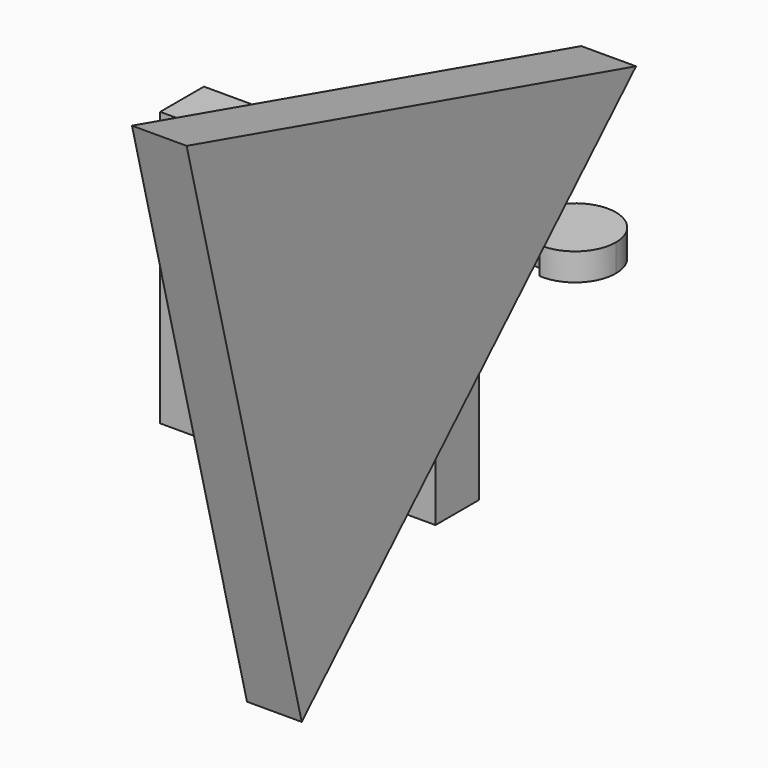
from build123d import *

# Parameters (mm, degrees)
F0_W     = 127.872322
F0_H     = 127.393622
F1_DEPTH = 25.4
F3_DEPTH = 12.7
F5_DEPTH = 25.4


with BuildPart() as f1:
    # F0 (on Front) → F1 (new body)
    with BuildSketch(Plane.XZ):
        with Locations((-59.20664, -14.814315)):
            Rectangle(F0_W, F0_H)
    extrude(amount=F1_DEPTH)

    # F4 (on Right) → F5 (join)
    with BuildSketch(Plane.YZ):
        Polygon((-128.909611, -110.192191), (65.195793, 78.98877), (-195.692427, 152.4985), align=None)
    extrude(amount=F5_DEPTH)


with BuildPart() as f3:
    # F2 (on Top) → F3 (new body)
    with BuildSketch(Plane.XY):
        with BuildLine():
            ThreePointArc((-3.808539, 36.946655), (2.206931, 37.848496), (6.097252, 33.172538))
            ThreePointArc((6.097252, 33.172538), (20.452664, 38.130037), (26.544886, 52.041885))
            ThreePointArc((26.544886, 52.041885), (-0.814821, 68.991784), (-3.808539, 36.946655))
        make_face()
    extrude(amount=F3_DEPTH)


solid = Compound([f1.part, f3.part])
